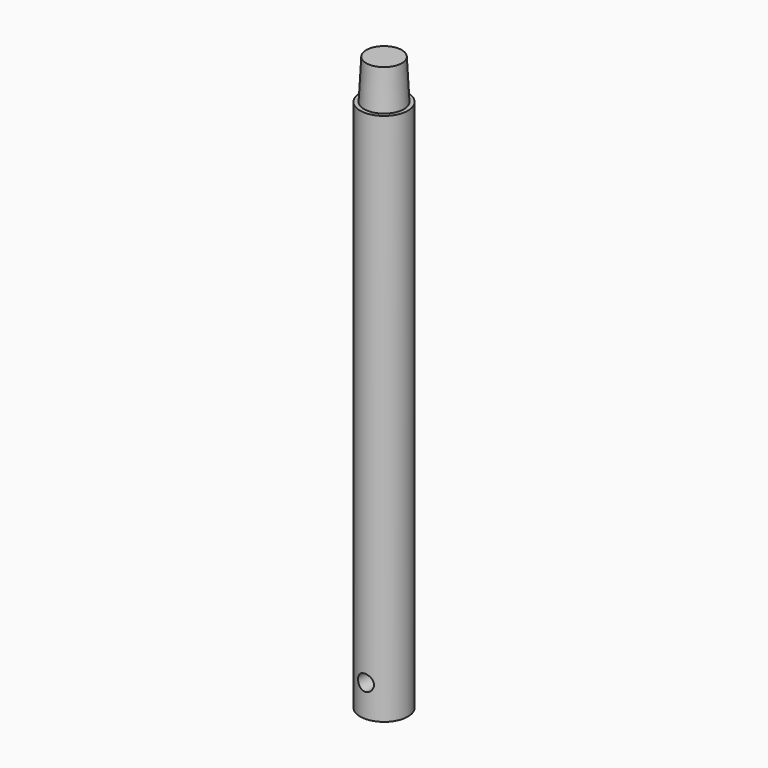
from build123d import *

# Parameters (mm, degrees)
F0_R     = 9.525
F1_DEPTH = 212.725
F2_R     = 7.9375
F3_DEPTH = 15.875
F3_TAPER = 3
F4_R     = 3.175
F5_DEPTH = 12.7


with BuildPart() as f1:
    # F0 (on Top) → F1 (new body)
    with BuildSketch(Plane.XY):
        Circle(F0_R)
    extrude(amount=-F1_DEPTH)

    # F2 (on face) → F3 (join)
    with BuildSketch(Plane.XY):
        Circle(F2_R)
    extrude(amount=F3_DEPTH, taper=F3_TAPER)

    # F4 (on Front) → F5 (cut, symmetric)
    with BuildSketch(Plane.XZ):
        with Locations((0, -200.025)):
            Circle(F4_R)
    extrude(amount=F5_DEPTH, both=True, mode=Mode.SUBTRACT)


solid = f1.part
